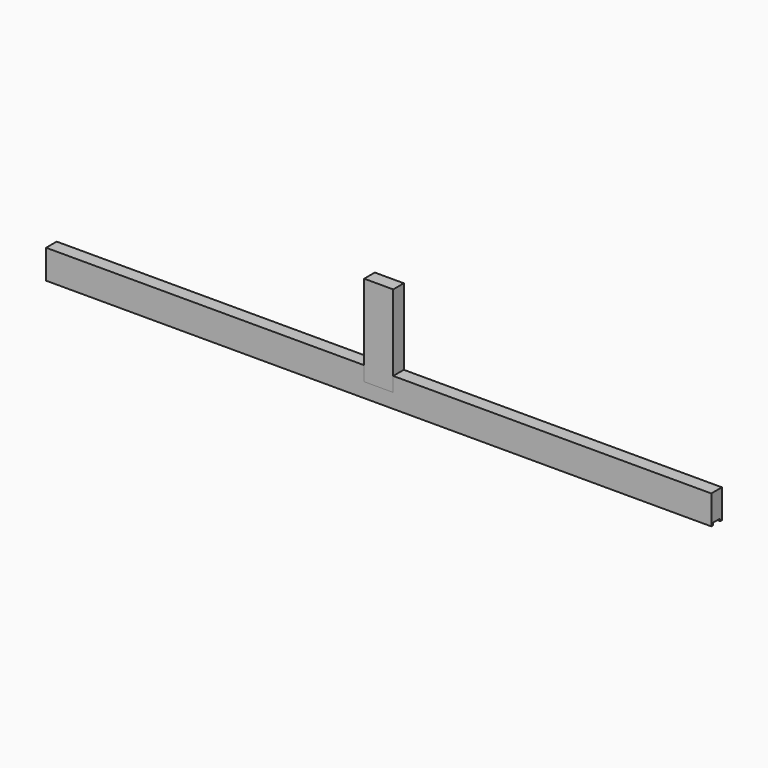
from build123d import *

# Parameters (mm, degrees)
F0_W          = 1100
F0_H          = 22
F1_DEPTH      = 48
F2_W          = 48
F2_H          = 22
F3_DEPTH      = 126
F3_DEPTH_BACK = 24
F4_W          = 1100
F4_H          = 15
F5_DEPTH      = 4


with BuildPart() as f1:
    # F0 (on Top) → F1 (new body)
    with BuildSketch(Plane.XY):
        Rectangle(F0_W, F0_H)
    extrude(amount=F1_DEPTH)

    # F4 (on face) → F5 (cut)
    with BuildSketch(Plane(origin=(0, 0, 0), x_dir=(1, 0, 0), z_dir=(0, 0, -1))):
        Rectangle(F4_W, F4_H)
    extrude(amount=-F5_DEPTH, mode=Mode.SUBTRACT)


with BuildPart() as f3:
    # F2 (on face) → F3 (new body, two sides)
    with BuildSketch(Plane.XY.offset(48)) as f3_sk:
        Rectangle(F2_W, F2_H)
    extrude(amount=F3_DEPTH)
    extrude(f3_sk.sketch, amount=-F3_DEPTH_BACK)


solid = Compound([f1.part, f3.part])
